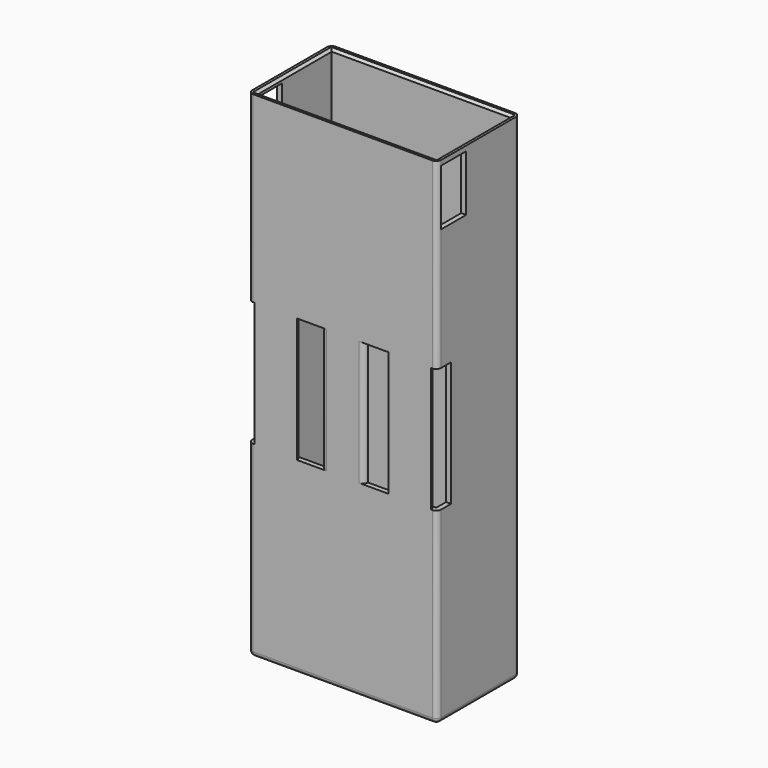
from build123d import *

# Parameters (mm, degrees)
SKETCH020_W          = 36.5
SKETCH020_H          = 19
PAD015_DEPTH         = 50
THICKNESS003_T       = 1
SKETCH021_W          = 11.43
SKETCH021_H          = 6.35
POCKET003_DEPTH      = 51.001
SKETCH022_W          = 6.35
SKETCH022_H          = 11.43
POCKET004_DEPTH      = 19.251
POCKET004_DEPTH_BACK = 19.251
SKETCH028_W          = 10
SKETCH028_H          = 25.4
SKETCH028_W_2        = 5
POCKET005_DEPTH      = 5
FILLET006_R          = 0.99
SKETCH034_W          = 36.5
SKETCH034_H          = 3.365
PAD021_DEPTH         = 4
CHAMFER_SIZE         = 1
CHAMFER001_SIZE      = 0.49


with BuildPart() as part:
    # Sketch020 → Pad015 (new body, symmetric)
    with BuildSketch(Plane.XY):
        Rectangle(SKETCH020_W, SKETCH020_H)
    extrude(amount=PAD015_DEPTH, both=True)

    # Thickness003
    thickness003_openings = [part.faces().sort_by_distance(p)[0] for p in [
        (0, 0, 50),
    ]]
    offset(amount=THICKNESS003_T, openings=thickness003_openings)

    # Sketch021 → Pocket003 (cut, through all)
    with BuildSketch(Plane.XY):
        with Locations((7.62, -2.96)):
            Rectangle(SKETCH021_W, SKETCH021_H)
        with Locations((-7.62, -2.96)):
            Rectangle(SKETCH021_W, SKETCH021_H)
    extrude(amount=-POCKET003_DEPTH, mode=Mode.SUBTRACT)

    # Sketch022 → Pocket004 (cut, two sides)
    with BuildSketch(Plane.YZ) as pocket004_sk:
        with Locations((-6.325, 43.285)):
            Rectangle(SKETCH022_W, SKETCH022_H)
    extrude(amount=-POCKET004_DEPTH, mode=Mode.SUBTRACT)
    extrude(pocket004_sk.sketch, amount=POCKET004_DEPTH_BACK, mode=Mode.SUBTRACT)

    # Sketch028 → Pocket005 (cut)
    with BuildSketch(Plane.XZ.offset(7)):
        with Locations((-23, 0)):
            Rectangle(SKETCH028_W, SKETCH028_H)
        with Locations((23, 0)):
            Rectangle(SKETCH028_W, SKETCH028_H)
        with Locations((-6.833333, 0)):
            Rectangle(SKETCH028_W_2, SKETCH028_H)
        with Locations((6.833333, 0)):
            Rectangle(SKETCH028_W_2, SKETCH028_H)
    extrude(amount=POCKET005_DEPTH, mode=Mode.SUBTRACT)

    # Fillet006
    fillet006_edges = [part.edges().sort_by_distance(p)[0] for p in [
        (-18, -9.5, 0),
        (-9.333333, -9.5, 0),
        (-4.333333, -10.5, 0),
        (4.333333, -10.5, 0),
        (9.333333, -9.5, 0),
        (18, -9.5, 0),
    ]]
    fillet(fillet006_edges, radius=FILLET006_R)

    # Sketch034 → Pad021 (join)
    with BuildSketch(Plane.XY.offset(-50)):
        with Locations((0, -7.8175)):
            Rectangle(SKETCH034_W, SKETCH034_H)
        with Locations((0, 1.8975)):
            Rectangle(SKETCH034_W, SKETCH034_H)
    extrude(amount=PAD021_DEPTH)

    # Chamfer
    chamfer_edges = [part.edges().sort_by_distance(p)[0] for p in [
        (0, 0.215, -46),
        (0, -6.135, -46),
    ]]
    chamfer(chamfer_edges, length=CHAMFER_SIZE)

    # Chamfer001
    chamfer001_edges = [part.edges().sort_by_distance(p)[0] for p in [
        (0, -9.5, 50),
        (-18.25, 0, 50),
        (0, 9.5, 50),
        (18.25, 0, 50),
    ]]
    chamfer(chamfer001_edges, length=CHAMFER001_SIZE)


solid = part.part
